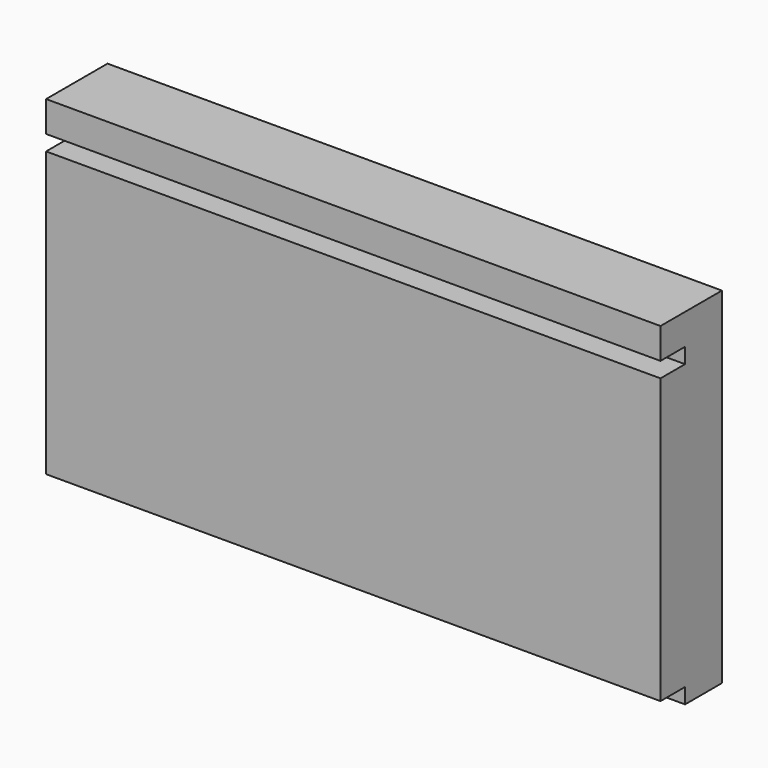
from build123d import *

# Parameters (mm, degrees)
F0_W     = 160
F0_H     = 20
F1_DEPTH = 90
F2_W     = 8
F2_H     = 4
F3_DEPTH = 160


with BuildPart() as f1:
    # F0 (on Top) → F1 (new body)
    with BuildSketch(Plane.XY):
        with Locations((-14.711315, -3.172277)):
            Rectangle(F0_W, F0_H)
    extrude(amount=F1_DEPTH)

    # F2 (on face) → F3 (cut, through all)
    with BuildSketch(Plane.YZ.offset(65.288685)):
        with Locations((-9.172277, 80)):
            Rectangle(F2_W, F2_H)
        with Locations((-9.172277, 2)):
            Rectangle(F2_W, F2_H)
    extrude(amount=-F3_DEPTH, mode=Mode.SUBTRACT)


solid = f1.part
